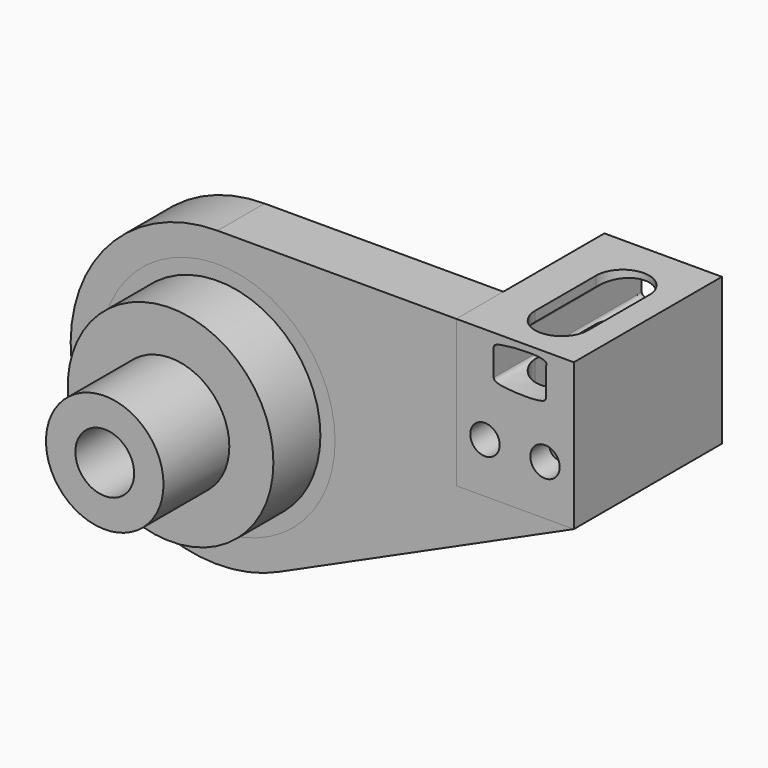
from build123d import *

# Parameters (mm, degrees)
F0_R          = 20
F1_DEPTH      = 10
F0_R_2        = 17.5
F2_DEPTH      = 5
F0_R_3        = 10
F3_DEPTH      = 10
F0_R_4        = 5
F4_DEPTH      = 24
F0_W          = 20
F0_H          = 17
F0_R_5        = 2.5
F0_H_2        = 8
F5_DEPTH      = 31.5
F7_DEPTH      = 25
F7_DEPTH_BACK = 25


with BuildPart() as f1:
    # F0 (on Front) → F1 (new body)
    with BuildSketch(Plane.XZ):
        with BuildLine():
            ThreePointArc((0, 25), (-24.4136250072, -5.3828351274), (10.513161462, -22.6820068793))
            Line((10.513161462, -22.6820068793), (60.6183165254, 0))
            Line((60.6183165254, 0), (40.6183165254, 0))
            Line((40.6183165254, 0), (40.6183165254, 17))
            Line((40.6183165254, 17), (40.6183165254, 25))
            Line((40.6183165254, 25), (0, 25))
        make_face()
        Circle(F0_R, mode=Mode.SUBTRACT)
    extrude(amount=-F1_DEPTH)


with BuildPart() as f2:
    # F0 (on Front) → F2 (new body)
    with BuildSketch(Plane.XZ):
        Circle(F0_R)
        Circle(F0_R_2, mode=Mode.SUBTRACT)
    extrude(amount=-F2_DEPTH)


with BuildPart() as f3:
    # F0 (on Front) → F3 (new body)
    with BuildSketch(Plane.XZ):
        Circle(F0_R_2)
        Circle(F0_R_3, mode=Mode.SUBTRACT)
    extrude(amount=F3_DEPTH)

    # F0 (on Front) → F4 (join)
    with BuildSketch(Plane.XZ):
        Circle(F0_R_3)
        Circle(F0_R_4, mode=Mode.SUBTRACT)
    extrude(amount=F4_DEPTH)


with BuildPart() as f5:
    # F0 (on Front) → F5 (new body)
    with BuildSketch(Plane.XZ):
        with Locations((50.6183165254, 8.5)):
            Rectangle(F0_W, F0_H)
        with Locations((45.4957149923, 8.5)):
            Circle(F0_R_5, mode=Mode.SUBTRACT)
        with Locations((55.7129792869, 8.5)):
            Circle(F0_R_5, mode=Mode.SUBTRACT)
        with Locations((50.6183165254, 21)):
            Rectangle(F0_W, F0_H_2)
        with BuildLine():
            Line((46.9712242484, 18.2492788881), (46.9712242484, 22.7982457727))
            add(Edge.make_bspline(
                [(46.9712242484, 22.7982457727), (47.0120098226, 22.9971951161), (47.1857904213, 23.8448854268), (56.3106171556, 24.336941652), (55.96942084, 23.0970469938), (55.887196213, 22.7982457727)],
                knots=[0, 0, 0, 0, 0.188815903, 0.8045133939, 1, 1, 1, 1], degree=3))
            Line((55.887196213, 22.7982457727), (55.887196213, 18.2492788881))
            add(Edge.make_bspline(
                [(46.9712242484, 18.2492788881), (47.0205545118, 18.0544865699), (47.2293355492, 17.2300648164), (55.7829701616, 16.898893848), (55.8663806592, 17.9795861186), (55.887196213, 18.2492788881)],
                knots=[0, 0, 0, 0, 0.1884234089, 0.7974665457, 1, 1, 1, 1], degree=3))
        make_face(mode=Mode.SUBTRACT)
    extrude(amount=-F5_DEPTH)


with BuildPart() as f7_tool:
    # F6 (on Top) → F7 (new body, two sides)
    with BuildSketch(Plane.XY) as f7_sk:
        with BuildLine():
            ThreePointArc((56.346829528, 21.3560446687), (51.846829528, 25.8560446687), (47.346829528, 21.3560446687))
            Line((47.346829528, 21.3560446687), (47.346829528, 8.3560446687))
            ThreePointArc((47.346829528, 8.3560446687), (51.846829528, 3.8560446687), (56.346829528, 8.3560446687))
            Line((56.346829528, 8.3560446687), (56.346829528, 21.3560446687))
        make_face()
    extrude(amount=F7_DEPTH)
    extrude(f7_sk.sketch, amount=-F7_DEPTH_BACK)


with BuildPart() as f1_1:
    add(f1.part)

    # F7: cut by f7_tool
    add(f7_tool.part, mode=Mode.SUBTRACT)


with BuildPart() as f5_1:
    add(f5.part)

    # F7: cut by f7_tool
    add(f7_tool.part, mode=Mode.SUBTRACT)


solid = Compound([f2.part, f3.part, f1_1.part, f5_1.part])
